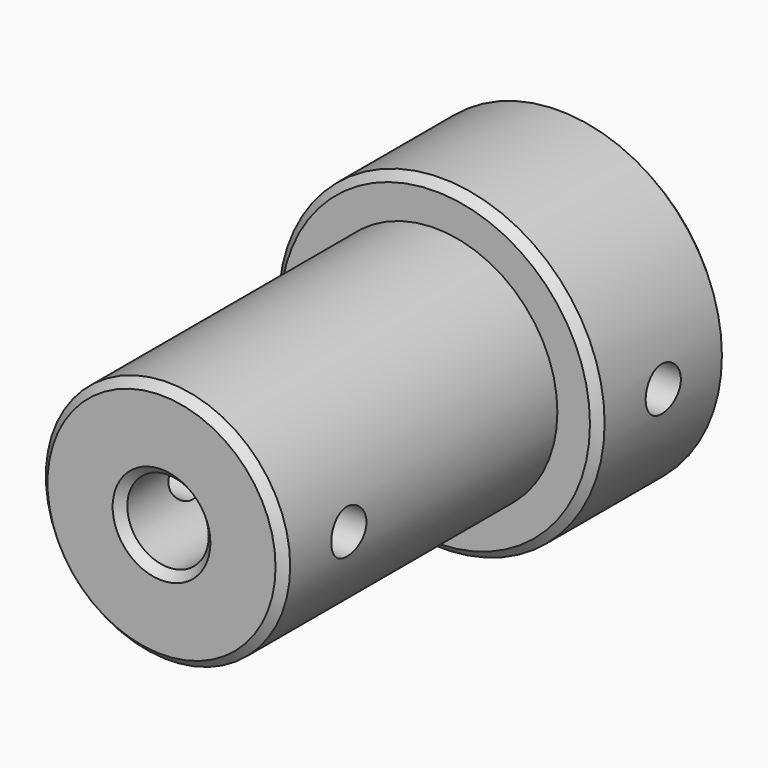
from build123d import *

# Parameters (mm, degrees)
F0_R     = 7.5
F0_R_2   = 2.5
F1_DEPTH = 21
F2_R     = 10
F2_R_2   = 5.05
F3_DEPTH = 10
F5_D     = 2.7
F5_DEPTH = 10.001
F6_SIZE  = 0.5
F7_D     = 2.7


with BuildPart() as f1:
    # F0 (on Front) → F1 (new body)
    with BuildSketch(Plane.XZ):
        Circle(F0_R)
        Circle(F0_R_2, mode=Mode.SUBTRACT)
    extrude(amount=F1_DEPTH)

    # F2 (on Front) → F3 (join)
    with BuildSketch(Plane.XZ):
        Circle(F2_R)
        Circle(F2_R_2, mode=Mode.SUBTRACT)
    extrude(amount=-F3_DEPTH)

    # F5 (through all, one way)
    with BuildSketch(Plane.YZ):
        with Locations((5, 0), (-16, 0)):
            Circle(F5_D / 2)
    extrude(amount=-F5_DEPTH, mode=Mode.SUBTRACT)

    # F6
    f6_edges = [f1.edges().sort_by_distance(p)[0] for p in [
        (-10, 10, 0),
        (-5.05, 10, 0),
        (-10, 0, 0),
        (-7.5, -21, 0),
        (-2.5, -21, 0),
    ]]
    chamfer(f6_edges, length=F6_SIZE)

    # F7 (through all)
    with Locations(Plane(origin=(0, 0, 0), x_dir=(0, 1, 0), z_dir=(-1, 0, 0))):
        with Locations((5, 0), (-16, 0)):
            Hole(F7_D / 2)


solid = f1.part
